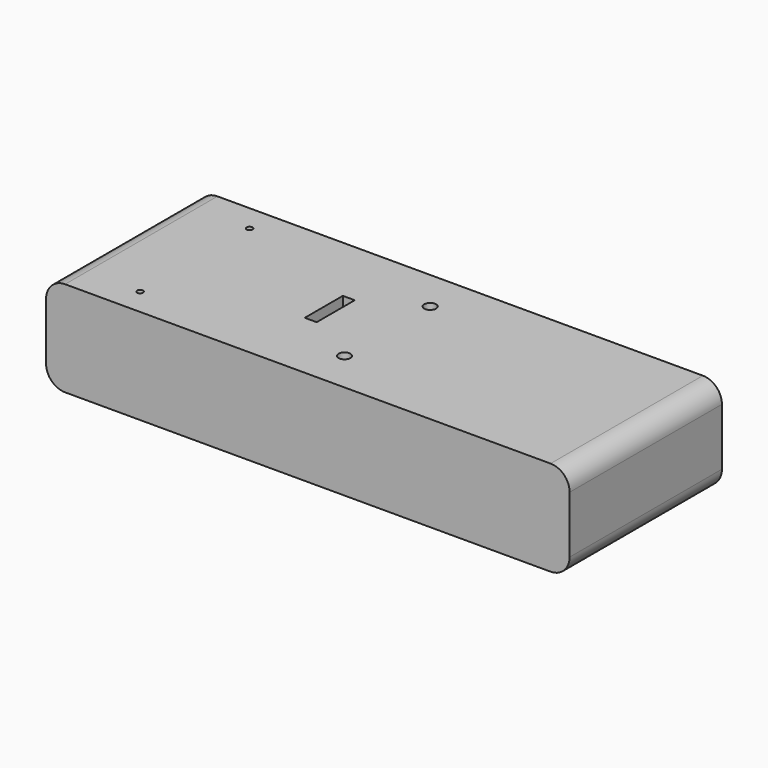
from build123d import *

# Parameters (mm, degrees)
F0_W     = 139.7
F0_H     = 25.4
F1_DEPTH = 50.8
F2_R     = 5.08
F3_R     = 0.79375
F4_DEPTH = 20.32
F5_W     = 3.175
F5_H     = 12.7
F6_DEPTH = 12.7
F7_R     = 1.5875
F8_DEPTH = 20.32


with BuildPart() as f1:
    # F0 (on Front) → F1 (new body)
    with BuildSketch(Plane.XZ):
        with Locations((-0.889001, -1.383466)):
            Rectangle(F0_W, F0_H)
    extrude(amount=F1_DEPTH)

    # F2
    f2_edges = [f1.edges().sort_by_distance(p)[0] for p in [
        (-70.739001, -25.4, 11.316534),
        (-70.739001, -25.4, -14.083466),
        (68.960999, -25.4, 11.316534),
        (68.960999, -25.4, -14.083466),
    ]]
    fillet(f2_edges, radius=F2_R)

    # F3 (on face) → F4 (cut)
    with BuildSketch(Plane.XY.offset(11.316534)):
        with Locations((-51.373154, -7.14375)):
            Circle(F3_R)
        with Locations((-51.373154, -43.65625)):
            Circle(F3_R)
    extrude(amount=-F4_DEPTH, mode=Mode.SUBTRACT)

    # F5 (on face) → F6 (cut)
    with BuildSketch(Plane.XY.offset(11.316534)):
        with Locations((-15.614189, -25.083785)):
            Rectangle(F5_W, F5_H)
    extrude(amount=-F6_DEPTH, mode=Mode.SUBTRACT)

    # F7 (on face) → F8 (cut)
    with BuildSketch(Plane.XY.offset(11.316534)):
        with Locations((0, -11.1125)):
            Circle(F7_R)
        with Locations((0, -39.6875)):
            Circle(F7_R)
    extrude(amount=-F8_DEPTH, mode=Mode.SUBTRACT)


solid = f1.part
